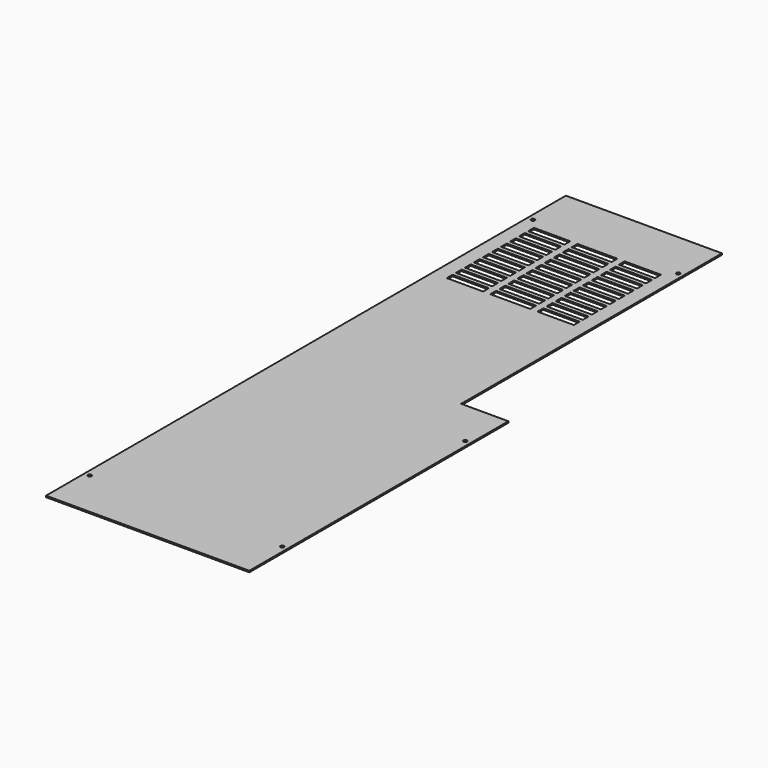
from build123d import *

# Parameters (mm, degrees)
SKETCH_R            = 2.5
PAD_DEPTH           = 2
SKETCH001_W         = 50
SKETCH001_H         = 10
SKETCH001_W_2       = 55
POCKET_DEPTH        = 5
LINEARPATTERN_COUNT = 10
LINEARPATTERN_PITCH = 15.555556


with BuildPart() as part:
    # Sketch → Pad (new body)
    with BuildSketch(Plane.XY):
        Polygon((-140, 447.5), (75, 447.5), (75, -1.5), (140, -1.5), (140, -447.5), (-140, -447.5), align=None)
        with Locations((-132.5, 381.5)):
            Circle(SKETCH_R, mode=Mode.SUBTRACT)
        with Locations((67.5, 381.5)):
            Circle(SKETCH_R, mode=Mode.SUBTRACT)
        with Locations((132.5, -66.5)):
            Circle(SKETCH_R, mode=Mode.SUBTRACT)
        with Locations((132.5, -381.5)):
            Circle(SKETCH_R, mode=Mode.SUBTRACT)
        with Locations((-132.5, -381.5)):
            Circle(SKETCH_R, mode=Mode.SUBTRACT)
    extrude(amount=PAD_DEPTH)

    # Sketch001 → Pocket (cut)
    with BuildSketch(Plane.XY.offset(2)):
        with Locations((-95, 362.5)):
            Rectangle(SKETCH001_W, SKETCH001_H)
        with Locations((30, 362.5)):
            Rectangle(SKETCH001_W, SKETCH001_H)
        with Locations((-32.5, 362.5)):
            Rectangle(SKETCH001_W_2, SKETCH001_H)
    pocket = extrude(amount=-POCKET_DEPTH, mode=Mode.SUBTRACT)

    # LinearPattern: Pocket ×10
    with Locations(*[(0, -i * LINEARPATTERN_PITCH, 0) for i in range(1, LINEARPATTERN_COUNT)]):
        add(pocket, mode=Mode.SUBTRACT)


solid = part.part
